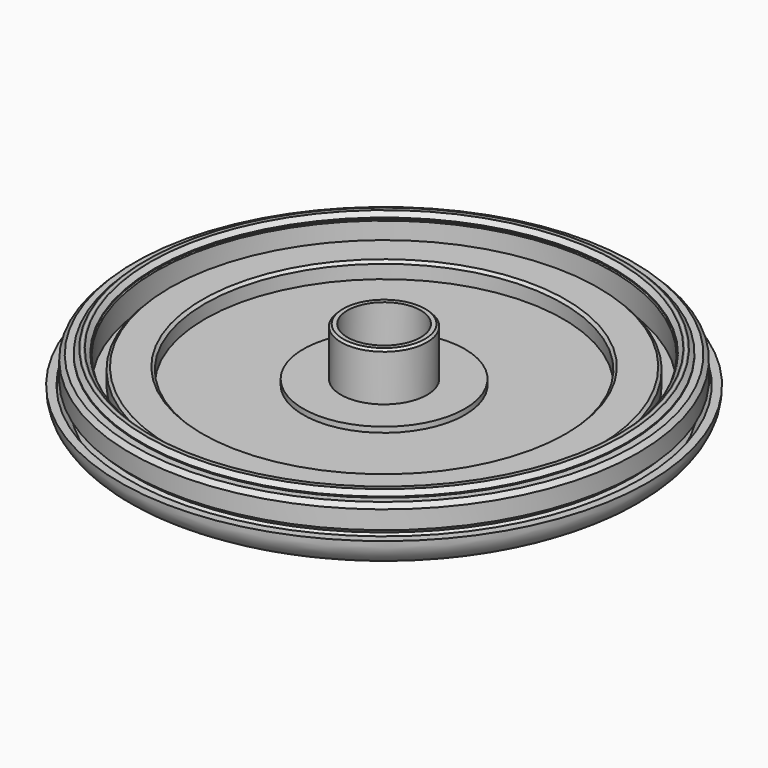
from build123d import *

# Parameters (mm, degrees)
F0_R      = 8
F0_R_2    = 6.8
F1_DEPTH  = 10
F2_R      = 15
F2_R_2    = 6.8
F3_DEPTH  = 1
F4_SIZE   = 0.4
F5_R      = 45
F5_R_2    = 42.6
F6_DEPTH  = 6
F7_SIZE   = 0.8
F8_R      = 45.2
F8_R_2    = 42.4
F9_DEPTH  = 6
F10_SIZE  = 1.2
F14_R     = 47.1
F14_R_2   = 43.9
F15_DEPTH = 5
F16_SIZE  = 0.8
F17_R     = 40.25
F17_R_2   = 33.25
F18_DEPTH = 3
F19_SIZE  = 0.5


with BuildPart() as f1:
    # F0 (on Top) → F1 (new body)
    with BuildSketch(Plane.XY):
        Circle(F0_R)
        Circle(F0_R_2, mode=Mode.SUBTRACT)
    extrude(amount=F1_DEPTH)

    # F2 (on Top) → F3 (join)
    with BuildSketch(Plane.XY):
        Circle(F2_R)
        Circle(F2_R_2, mode=Mode.SUBTRACT)
    extrude(amount=F3_DEPTH)

    # F4
    f4_edges = [f1.edges().sort_by_distance(p)[0] for p in [
        (-8, 0, 10),
    ]]
    chamfer(f4_edges, length=F4_SIZE)


with BuildPart() as f6:
    # F5 (on Top) → F6 (new body)
    with BuildSketch(Plane.XY):
        Circle(F5_R)
        Circle(F5_R_2, mode=Mode.SUBTRACT)
    extrude(amount=F6_DEPTH)

    # F7
    f7_edges = [f6.edges().sort_by_distance(p)[0] for p in [
        (-45, 0, 6),
        (-42.6, 0, 6),
    ]]
    chamfer(f7_edges, length=F7_SIZE)


with BuildPart() as f9:
    # F8 (on Top) → F9 (new body)
    with BuildSketch(Plane.XY):
        Circle(F8_R)
        Circle(F8_R_2, mode=Mode.SUBTRACT)
    extrude(amount=F9_DEPTH)

    # F10
    f10_edges = [f9.edges().sort_by_distance(p)[0] for p in [
        (-45.2, 0, 6),
        (-42.4, 0, 6),
    ]]
    chamfer(f10_edges, length=F10_SIZE)


with BuildPart() as f13:
    # F12 (on Front) → F13 (revolve)
    with BuildSketch(Plane.XZ):
        with BuildLine():
            Line((43.5, 0), (0, 0))
            Line((0, 0), (0, -14))
            add(Edge.make_bspline(
                [(49, 0), (49.0151784853, -1.3136469579), (48.1518462537, -3.1707451559), (45.7217539731, -5.2312616098), (35.2772718221, -9.6753253645), (16.7721624811, -13.5504767598), (5.0626850614, -14.0638199223), (0, -14)],
                knots=[0, 0, 0, 0, 0.1165832834, 0.2266955512, 0.4414882436, 0.732280279, 1, 1, 1, 1], degree=3))
            Line((49, 0), (47.5, 0))
            Line((47.5, 0), (47.5, -1.2))
            Line((47.5, -1.2), (45.5, -3.2))
            Line((45.5, -3.2), (43.5, -1.2))
            Line((43.5, -1.2), (43.5, 0))
        make_face()
    revolve(axis=Axis((0, 0, -7), (0, 0, -1)))

    # F17 (on face) → F18 (join)
    with BuildSketch(Plane.XY):
        Circle(F17_R)
        Circle(F17_R_2, mode=Mode.SUBTRACT)
    extrude(amount=F18_DEPTH)

    # F19
    f19_edges = [f13.edges().sort_by_distance(p)[0] for p in [
        (-40.25, 0, 3),
        (-33.25, 0, 3),
    ]]
    chamfer(f19_edges, length=F19_SIZE)


with BuildPart() as f15:
    # F14 (on face) → F15 (new body)
    with BuildSketch(Plane.XY):
        Circle(F14_R)
        Circle(F14_R_2, mode=Mode.SUBTRACT)
    extrude(amount=F15_DEPTH)

    # F16
    f16_edges = [f15.edges().sort_by_distance(p)[0] for p in [
        (-47.1, 0, 5),
        (-43.9, 0, 5),
        (-47.1, 0, 0),
        (-43.9, 0, 0),
    ]]
    chamfer(f16_edges, length=F16_SIZE)


solid = Compound([f1.part, f6.part, f9.part, f13.part, f15.part])
